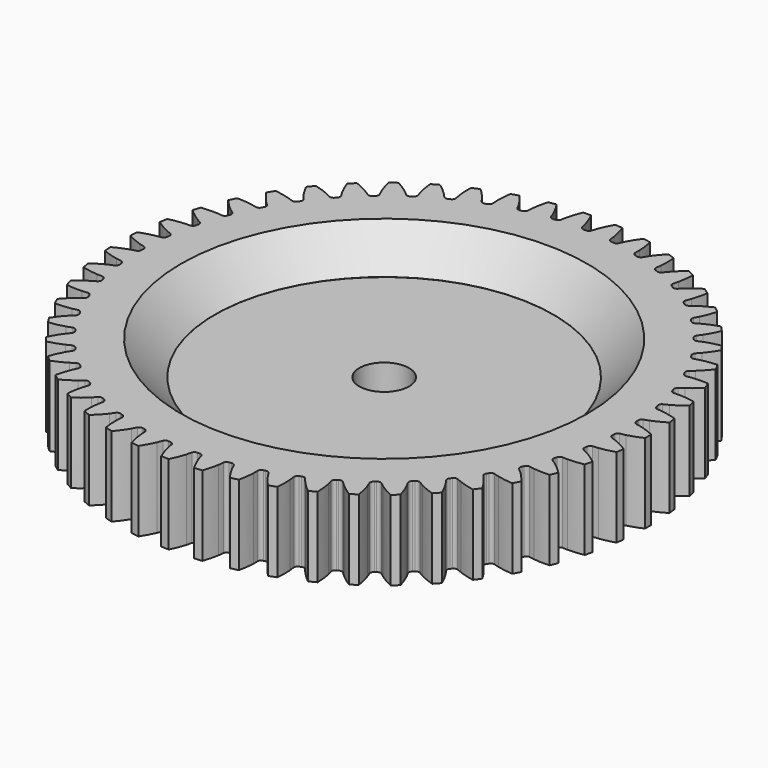
from build123d import *

# Parameters (mm, degrees)
PAD_DEPTH       = 8
SKETCH001_R     = 2.5
POCKET_DEPTH    = 8.001
SKETCH_R        = 17
POCKET001_DEPTH = 3.401
CHAMFER_SIZE    = 3.39


with BuildPart() as part:
    # InvoluteGear → Pad (new body)
    with BuildSketch(Plane.XY):
        with BuildLine():
            add(Edge.make_bspline(
                [(24.477809, -1.042539), (24.623171, -1.01798), (24.796938, -0.982154), (24.997721, -0.930036)],
                knots=[0, 0, 0, 0, 1, 1, 1, 1], degree=3))
            add(Edge.make_bspline(
                [(24.997721, -0.930036), (25.39788, -0.826117), (25.903105, -0.658218), (26.497465, -0.388172)],
                knots=[0, 0, 0, 0, 1, 1, 1, 1], degree=3))
            ThreePointArc((26.497465, -0.388172), (26.500308, 0), (26.497465, 0.388172))
            add(Edge.make_bspline(
                [(26.497465, 0.388172), (25.903105, 0.658218), (25.39788, 0.826117), (24.997721, 0.930036)],
                knots=[0, 0, 0, 0, 1, 1, 1, 1], degree=3))
            add(Edge.make_bspline(
                [(24.997721, 0.930036), (24.796938, 0.982154), (24.623171, 1.01798), (24.477829, 1.042534)],
                knots=[0, 0, 0, 0, 1, 1, 1, 1], degree=3))
            ThreePointArc((24.477829, 1.042534), (24.284389, 1.177202), (24.209514, 1.400693))
            ThreePointArc((24.209514, 1.400693), (24.204006, 1.492852), (24.198147, 1.584989))
            ThreePointArc((24.198147, 1.584989), (24.244984, 1.815979), (24.420395, 1.973399))
            add(Edge.make_bspline(
                [(24.420395, 1.973399), (24.561638, 2.015635), (24.729685, 2.072543), (24.922541, 2.148941)],
                knots=[0, 0, 0, 0, 1, 1, 1, 1], degree=3))
            add(Edge.make_bspline(
                [(24.922541, 2.148941), (25.306897, 2.301247), (25.78766, 2.529959), (26.344329, 2.870998)],
                knots=[0, 0, 0, 0, 1, 1, 1, 1], degree=3))
            ThreePointArc((26.344329, 2.870998), (26.299449, 3.256578), (26.248926, 3.641458))
            add(Edge.make_bspline(
                [(26.248926, 3.641458), (25.625886, 3.836417), (25.103857, 3.940957), (24.69396, 3.994914)],
                knots=[0, 0, 0, 0, 1, 1, 1, 1], degree=3))
            add(Edge.make_bspline(
                [(24.69396, 3.994914), (24.488294, 4.021963), (24.311442, 4.036164), (24.164184, 4.042671)],
                knots=[0, 0, 0, 0, 1, 1, 1, 1], degree=3))
            ThreePointArc((24.164184, 4.042671), (23.955661, 4.152547), (23.853889, 4.365143))
            ThreePointArc((23.853889, 4.365143), (23.837098, 4.455926), (23.819961, 4.546645))
            ThreePointArc((23.819961, 4.546645), (23.838057, 4.781639), (23.992793, 4.959422))
            add(Edge.make_bspline(
                [(23.992793, 4.959422), (24.127775, 5.018695), (24.287555, 5.095823), (24.469562, 5.195341)],
                knots=[0, 0, 0, 0, 1, 1, 1, 1], degree=3))
            add(Edge.make_bspline(
                [(24.469562, 5.195341), (24.832287, 5.393726), (25.2813, 5.679785), (25.791841, 6.086647)],
                knots=[0, 0, 0, 0, 1, 1, 1, 1], degree=3))
            ThreePointArc((25.791841, 6.086647), (25.699918, 6.463789), (25.60248, 6.839543))
            add(Edge.make_bspline(
                [(25.60248, 6.839543), (24.960204, 6.95646), (24.429285, 6.996057), (24.015865, 6.999233)],
                knots=[0, 0, 0, 0, 1, 1, 1, 1], degree=3))
            add(Edge.make_bspline(
                [(24.015865, 6.999233), (23.808433, 7.000804), (23.631176, 6.993163), (23.484235, 6.981525)],
                knots=[0, 0, 0, 0, 1, 1, 1, 1], degree=3))
            ThreePointArc((23.484235, 6.981525), (23.26379, 7.064943), (23.136664, 7.263421))
            ThreePointArc((23.136664, 7.263421), (23.108844, 7.351452), (23.080688, 7.439378))
            ThreePointArc((23.080688, 7.439378), (23.069769, 7.674815), (23.201485, 7.870266))
            add(Edge.make_bspline(
                [(23.201485, 7.870266), (23.32816, 7.945677), (23.477251, 8.041855), (23.645648, 8.162986)],
                knots=[0, 0, 0, 0, 1, 1, 1, 1], degree=3))
            add(Edge.make_bspline(
                [(23.645648, 8.162986), (23.981245, 8.404442), (24.391702, 8.743511), (24.848374, 9.210029)],
                knots=[0, 0, 0, 0, 1, 1, 1, 1], degree=3))
            ThreePointArc((24.848374, 9.210029), (24.710801, 9.573015), (24.567926, 9.933948))
            add(Edge.make_bspline(
                [(24.567926, 9.933948), (23.91615, 9.971051), (23.38439, 9.945103), (22.973713, 9.897451)],
                knots=[0, 0, 0, 0, 1, 1, 1, 1], degree=3))
            add(Edge.make_bspline(
                [(22.973713, 9.897451), (22.767661, 9.873519), (22.592686, 9.844154), (22.448289, 9.814546)],
                knots=[0, 0, 0, 0, 1, 1, 1, 1], degree=3))
            ThreePointArc((22.448289, 9.814546), (22.219264, 9.870242), (22.068711, 10.051593))
            ThreePointArc((22.068711, 10.051593), (22.030283, 10.135538), (21.991536, 10.219337))
            ThreePointArc((21.991536, 10.219337), (21.951767, 10.451648), (22.058466, 10.661804))
            add(Edge.make_bspline(
                [(22.058466, 10.661804), (22.174914, 10.752211), (22.311055, 10.865981), (22.463291, 11.006888)],
                knots=[0, 0, 0, 0, 1, 1, 1, 1], degree=3))
            add(Edge.make_bspline(
                [(22.463291, 11.006888), (22.766672, 11.287755), (23.13235, 11.674694), (23.528231, 12.193796)],
                knots=[0, 0, 0, 0, 1, 1, 1, 1], degree=3))
            ThreePointArc((23.528231, 12.193796), (23.347095, 12.537125), (23.160948, 12.877764))
            add(Edge.make_bspline(
                [(23.160948, 12.877764), (22.509553, 12.83449), (21.985011, 12.743392), (21.583303, 12.645633)],
                knots=[0, 0, 0, 0, 1, 1, 1, 1], degree=3))
            add(Edge.make_bspline(
                [(21.583303, 12.645633), (21.381754, 12.596561), (21.211714, 12.545916), (21.07205, 12.498788)],
                knots=[0, 0, 0, 0, 1, 1, 1, 1], degree=3))
            ThreePointArc((21.07205, 12.498788), (20.837916, 12.525918), (20.666218, 12.687393))
            ThreePointArc((20.666218, 12.687393), (20.617766, 12.76598), (20.569014, 12.844382))
            ThreePointArc((20.569014, 12.844382), (20.500999, 13.070045), (20.581064, 13.29172))
            add(Edge.make_bspline(
                [(20.581064, 13.29172), (20.685518, 13.395752), (20.806647, 13.52539), (20.940413, 13.683937)],
                knots=[0, 0, 0, 0, 1, 1, 1, 1], degree=3))
            add(Edge.make_bspline(
                [(20.940413, 13.683937), (21.20698, 13.999957), (21.522335, 14.428901), (21.851425, 14.992717)],
                knots=[0, 0, 0, 0, 1, 1, 1, 1], degree=3))
            ThreePointArc((21.851425, 14.992717), (21.62947, 15.311185), (21.402873, 15.626367))
            add(Edge.make_bspline(
                [(21.402873, 15.626367), (20.761733, 15.503372), (20.252363, 15.348504), (19.865712, 15.202121)],
                knots=[0, 0, 0, 0, 1, 1, 1, 1], degree=3))
            add(Edge.make_bspline(
                [(19.865712, 15.202121), (19.671721, 15.128653), (19.509194, 15.057496), (19.37638, 14.993562)],
                knots=[0, 0, 0, 0, 1, 1, 1, 1], degree=3))
            ThreePointArc((19.37638, 14.993562), (19.140687, 14.991713), (18.950446, 15.130865))
            ThreePointArc((18.950446, 15.130865), (18.892704, 15.202902), (18.834688, 15.274719))
            ThreePointArc((18.834688, 15.274719), (18.739456, 15.490314), (18.791673, 15.720147))
            add(Edge.make_bspline(
                [(18.791673, 15.720147), (18.882552, 15.836227), (18.986831, 15.979768), (19.1001, 16.153551)],
                knots=[0, 0, 0, 0, 1, 1, 1, 1], degree=3))
            add(Edge.make_bspline(
                [(19.1001, 16.153551), (19.325811, 16.499933), (19.586064, 16.96438), (19.843373, 17.564364)],
                knots=[0, 0, 0, 0, 1, 1, 1, 1], degree=3))
            ThreePointArc((19.843373, 17.564364), (19.583964, 17.853142), (19.320353, 18.138089))
            add(Edge.make_bspline(
                [(19.320353, 18.138089), (18.699187, 17.937238), (18.212709, 17.720948), (17.846978, 17.52816)],
                knots=[0, 0, 0, 0, 1, 1, 1, 1], degree=3))
            add(Edge.make_bspline(
                [(17.846978, 17.52816), (17.663485, 17.43141), (17.510934, 17.340819), (17.386983, 17.261049)],
                knots=[0, 0, 0, 0, 1, 1, 1, 1], degree=3))
            ThreePointArc((17.386983, 17.261049), (17.153304, 17.23025), (16.947406, 17.344969))
            ThreePointArc((16.947406, 17.344969), (16.881248, 17.409364), (16.814846, 17.473507))
            ThreePointArc((16.814846, 17.473507), (16.693843, 17.675765), (16.717419, 17.910273))
            add(Edge.make_bspline(
                [(16.717419, 17.910273), (16.793345, 18.036641), (16.879194, 18.191909), (16.970248, 18.378294)],
                knots=[0, 0, 0, 0, 1, 1, 1, 1], degree=3))
            add(Edge.make_bspline(
                [(16.970248, 18.378294), (17.151682, 18.749788), (17.352888, 19.242697), (17.534515, 19.869753)],
                knots=[0, 0, 0, 0, 1, 1, 1, 1], degree=3))
            ThreePointArc((17.534515, 19.869753), (17.241585, 20.124464), (16.944956, 20.374857))
            add(Edge.make_bspline(
                [(16.944956, 20.374857), (16.35318, 20.099194), (15.896968, 19.824761), (15.557701, 19.58849)],
                knots=[0, 0, 0, 0, 1, 1, 1, 1], degree=3))
            add(Edge.make_bspline(
                [(15.557701, 19.58849), (15.387489, 19.469924), (15.247226, 19.361274), (15.134018, 19.266875)],
                knots=[0, 0, 0, 0, 1, 1, 1, 1], degree=3))
            ThreePointArc((15.134018, 19.266875), (14.905895, 19.207594), (14.687459, 19.29614))
            ThreePointArc((14.687459, 19.29614), (14.61389, 19.351918), (14.540109, 19.407415))
            ThreePointArc((14.540109, 19.407415), (14.395167, 19.593269), (14.389747, 19.828898))
            add(Edge.make_bspline(
                [(14.389747, 19.828898), (14.449568, 19.963637), (14.515686, 20.128279), (14.583145, 20.324441)],
                knots=[0, 0, 0, 0, 1, 1, 1, 1], degree=3))
            add(Edge.make_bspline(
                [(14.583145, 20.324441), (14.717552, 20.715415), (14.85666, 21.229314), (14.959853, 21.873937)],
                knots=[0, 0, 0, 0, 1, 1, 1, 1], degree=3))
            ThreePointArc((14.959853, 21.873937), (14.637842, 22.09072), (14.31269, 22.302763))
            add(Edge.make_bspline(
                [(14.31269, 22.302763), (13.759276, 21.956467), (13.340246, 21.628051), (13.032585, 21.351879)],
                knots=[0, 0, 0, 0, 1, 1, 1, 1], degree=3))
            add(Edge.make_bspline(
                [(13.032585, 21.351879), (12.878234, 21.213294), (12.752386, 21.088231), (12.651637, 20.980636)],
                knots=[0, 0, 0, 0, 1, 1, 1, 1], degree=3))
            ThreePointArc((12.651637, 20.980636), (12.432527, 20.89377), (12.204866, 20.954802))
            ThreePointArc((12.204866, 20.954802), (12.125, 21.001116), (12.044958, 21.047125))
            ThreePointArc((12.044958, 21.047125), (11.878276, 21.21376), (11.843941, 21.446936))
            add(Edge.make_bspline(
                [(11.843941, 21.446936), (11.88675, 21.588006), (11.932135, 21.759525), (11.974977, 21.962489)],
                knots=[0, 0, 0, 0, 1, 1, 1, 1], degree=3))
            add(Edge.make_bspline(
                [(11.974977, 21.962489), (12.060318, 22.367018), (12.13522, 22.894116), (12.158414, 23.546535)],
                knots=[0, 0, 0, 0, 1, 1, 1, 1], degree=3))
            ThreePointArc((12.158414, 23.546535), (11.812204, 23.722103), (11.463459, 23.892581))
            add(Edge.make_bspline(
                [(11.463459, 23.892581), (10.956795, 23.480902), (10.5813, 23.103482), (10.309909, 22.791595)],
                knots=[0, 0, 0, 0, 1, 1, 1, 1], degree=3))
            add(Edge.make_bspline(
                [(10.309909, 22.791595), (10.173758, 22.635092), (10.064233, 22.495512), (9.977469, 22.376351)],
                knots=[0, 0, 0, 0, 1, 1, 1, 1], degree=3))
            ThreePointArc((9.977469, 22.376351), (9.770695, 22.263218), (9.53726, 22.295811))
            ThreePointArc((9.53726, 22.295811), (9.452307, 22.331959), (9.367218, 22.367783))
            ThreePointArc((9.367218, 22.367783), (9.181322, 22.512671), (9.118592, 22.739861))
            add(Edge.make_bspline(
                [(9.118592, 22.739861), (9.143742, 22.885122), (9.167705, 23.060918), (9.18528, 23.267609)],
                knots=[0, 0, 0, 0, 1, 1, 1, 1], degree=3))
            add(Edge.make_bspline(
                [(9.18528, 23.267609), (9.220263, 23.679559), (9.229822, 24.211867), (9.172666, 24.862191)],
                knots=[0, 0, 0, 0, 1, 1, 1, 1], degree=3))
            ThreePointArc((9.172666, 24.862191), (8.807505, 24.993883), (8.440453, 25.120212))
            add(Edge.make_bspline(
                [(8.440453, 25.120212), (7.98822, 24.64939), (7.661952, 24.228687), (7.430945, 23.885813)],
                knots=[0, 0, 0, 0, 1, 1, 1, 1], degree=3))
            add(Edge.make_bspline(
                [(7.430945, 23.885813), (7.315058, 23.713766), (7.223516, 23.561783), (7.152053, 23.432864)],
                knots=[0, 0, 0, 0, 1, 1, 1, 1], degree=3))
            ThreePointArc((7.152053, 23.432864), (6.96075, 23.295178), (6.725078, 23.298837))
            ThreePointArc((6.725078, 23.298837), (6.636328, 23.324272), (6.547481, 23.349368))
            ThreePointArc((6.547481, 23.349368), (6.345189, 23.470314), (6.255016, 23.688073))
            add(Edge.make_bspline(
                [(6.255016, 23.688073), (6.262123, 23.835323), (6.264301, 24.012732), (6.256343, 24.220016)],
                knots=[0, 0, 0, 0, 1, 1, 1, 1], degree=3))
            add(Edge.make_bspline(
                [(6.256343, 24.220016), (6.240437, 24.633142), (6.18451, 25.16259), (6.04787, 25.800961)],
                knots=[0, 0, 0, 0, 1, 1, 1, 1], degree=3))
            ThreePointArc((6.04787, 25.800961), (5.669293, 25.886781), (5.289499, 25.967047))
            add(Edge.make_bspline(
                [(5.289499, 25.967047), (4.898552, 25.444219), (4.626456, 24.98661), (4.439336, 24.617947)],
                knots=[0, 0, 0, 0, 1, 1, 1, 1], degree=3))
            add(Edge.make_bspline(
                [(4.439336, 24.617947), (4.345469, 24.432962), (4.273299, 24.270883), (4.21822, 24.134159)],
                knots=[0, 0, 0, 0, 1, 1, 1, 1], degree=3))
            ThreePointArc((4.21822, 24.134159), (4.045286, 23.974007), (3.810951, 23.948677))
            ThreePointArc((3.810951, 23.948677), (3.719748, 23.963013), (3.62849, 23.977001))
            ThreePointArc((3.62849, 23.977001), (3.412868, 24.07217), (3.296619, 24.277197))
            add(Edge.make_bspline(
                [(3.296619, 24.277197), (3.285577, 24.424205), (3.265937, 24.600537), (3.232567, 24.805272)],
                knots=[0, 0, 0, 0, 1, 1, 1, 1], degree=3))
            add(Edge.make_bspline(
                [(3.232567, 24.805272), (3.166013, 25.213313), (3.045447, 25.731874), (2.831394, 26.348615)],
                knots=[0, 0, 0, 0, 1, 1, 1, 1], degree=3))
            ThreePointArc((2.831394, 26.348615), (2.44514, 26.387262), (2.058361, 26.420247))
            add(Edge.make_bspline(
                [(2.058361, 26.420247), (1.734627, 25.85334), (1.520828, 25.365761), (1.38043, 24.976898)],
                knots=[0, 0, 0, 0, 1, 1, 1, 1], degree=3))
            add(Edge.make_bspline(
                [(1.38043, 24.976898), (1.310008, 24.78178), (1.258302, 24.61206), (1.220442, 24.469604)],
                knots=[0, 0, 0, 0, 1, 1, 1, 1], degree=3))
            ThreePointArc((1.220442, 24.469604), (1.0685, 24.289415), (0.839054, 24.23548))
            ThreePointArc((0.839054, 24.23548), (0.74678, 24.238499), (0.654496, 24.241166))
            ThreePointArc((0.654496, 24.241166), (0.428813, 24.309117), (0.288249, 24.498304))
            add(Edge.make_bspline(
                [(0.288249, 24.498304), (0.259225, 24.642841), (0.218065, 24.815423), (0.159788, 25.014505)],
                knots=[0, 0, 0, 0, 1, 1, 1, 1], degree=3))
            add(Edge.make_bspline(
                [(0.159788, 25.014505), (0.043596, 25.411274), (-0.139782, 25.91109), (-0.428003, 26.496851)],
                knots=[0, 0, 0, 0, 1, 1, 1, 1], degree=3))
            ThreePointArc((-0.428003, 26.496851), (-0.816079, 26.487739), (-1.203979, 26.472944))
            add(Edge.make_bspline(
                [(-1.203979, 26.472944), (-1.455593, 25.87055), (-1.607854, 25.360394), (-1.699401, 24.957224)],
                knots=[0, 0, 0, 0, 1, 1, 1, 1], degree=3))
            add(Edge.make_bspline(
                [(-1.699401, 24.957224), (-1.745312, 24.754932), (-1.775769, 24.580144), (-1.795836, 24.434115)],
                knots=[0, 0, 0, 0, 1, 1, 1, 1], degree=3))
            ThreePointArc((-1.795836, 24.434115), (-1.924483, 24.236619), (-2.145562, 24.154897))
            ThreePointArc((-2.145562, 24.154897), (-2.237508, 24.146554), (-2.329421, 24.13786))
            ThreePointArc((-2.329421, 24.13786), (-2.561743, 24.177562), (-2.724491, 24.348042))
            add(Edge.make_bspline(
                [(-2.724491, 24.348042), (-2.771056, 24.487917), (-2.833112, 24.654132), (-2.915413, 24.844544)],
                knots=[0, 0, 0, 0, 1, 1, 1, 1], degree=3))
            add(Edge.make_bspline(
                [(-2.915413, 24.844544), (-3.079483, 25.224027), (-3.322892, 25.697519), (-3.680912, 26.243422)],
                knots=[0, 0, 0, 0, 1, 1, 1, 1], degree=3))
            ThreePointArc((-3.680912, 26.243422), (-4.064926, 26.186689), (-4.448068, 26.124338))
            add(Edge.make_bspline(
                [(-4.448068, 26.124338), (-4.623748, 25.495589), (-4.712163, 24.970588), (-4.753471, 24.559225)],
                knots=[0, 0, 0, 0, 1, 1, 1, 1], degree=3))
            add(Edge.make_bspline(
                [(-4.753471, 24.559225), (-4.774174, 24.352823), (-4.782922, 24.175618), (-4.784891, 24.02823)],
                knots=[0, 0, 0, 0, 1, 1, 1, 1], degree=3))
            ThreePointArc((-4.784891, 24.02823), (-4.888293, 23.816422), (-5.097654, 23.708151))
            ThreePointArc((-5.097654, 23.708151), (-5.187877, 23.688572), (-5.278025, 23.668649))
            ThreePointArc((-5.278025, 23.668649), (-5.513466, 23.679501), (-5.69593, 23.828688))
            add(Edge.make_bspline(
                [(-5.69593, 23.828688), (-5.759331, 23.961781), (-5.841343, 24.11911), (-5.946419, 24.297965)],
                knots=[0, 0, 0, 0, 1, 1, 1, 1], degree=3))
            add(Edge.make_bspline(
                [(-5.946419, 24.297965), (-6.15588, 24.65441), (-6.45563, 25.094401), (-6.878022, 25.59217)],
                knots=[0, 0, 0, 0, 1, 1, 1, 1], degree=3))
            ThreePointArc((-6.878022, 25.59217), (-7.252154, 25.488676), (-7.624729, 25.379713))
            add(Edge.make_bspline(
                [(-7.624729, 25.379713), (-7.721812, 24.734141), (-7.74504, 24.202255), (-7.735483, 23.788933)],
                knots=[0, 0, 0, 0, 1, 1, 1, 1], degree=3))
            add(Edge.make_bspline(
                [(-7.735483, 23.788933), (-7.730665, 23.581551), (-7.71757, 23.404614), (-7.701412, 23.258101)],
                knots=[0, 0, 0, 0, 1, 1, 1, 1], degree=3))
            ThreePointArc((-7.701412, 23.258101), (-7.778002, 23.035191), (-7.972471, 22.902013))
            ThreePointArc((-7.972471, 22.902013), (-8.059604, 22.871495), (-8.14662, 22.840645))
            ThreePointArc((-8.14662, 22.840645), (-8.38161, 22.822482), (-8.581024, 22.948116))
            add(Edge.make_bspline(
                [(-8.581024, 22.948116), (-8.660301, 23.072408), (-8.761025, 23.218467), (-8.887283, 23.383054)],
                knots=[0, 0, 0, 0, 1, 1, 1, 1], degree=3))
            add(Edge.make_bspline(
                [(-8.887283, 23.383054), (-9.138959, 23.711056), (-9.490508, 24.110876), (-9.970868, 24.552966)],
                knots=[0, 0, 0, 0, 1, 1, 1, 1], degree=3))
            ThreePointArc((-9.970868, 24.552966), (-10.329446, 24.40428), (-10.685807, 24.250358))
            add(Edge.make_bspline(
                [(-10.685807, 24.250358), (-10.702821, 23.597748), (-10.66051, 23.067039), (-10.600233, 22.658024)],
                knots=[0, 0, 0, 0, 1, 1, 1, 1], degree=3))
            add(Edge.make_bspline(
                [(-10.600233, 22.658024), (-10.569967, 22.452807), (-10.535228, 22.27882), (-10.501187, 22.135403)],
                knots=[0, 0, 0, 0, 1, 1, 1, 1], degree=3))
            ThreePointArc((-10.501187, 22.135403), (-10.549804, 21.904771), (-10.726433, 21.748704))
            ThreePointArc((-10.726433, 21.748704), (-10.809155, 21.70771), (-10.891721, 21.666401))
            ThreePointArc((-10.891721, 21.666401), (-11.122697, 21.619497), (-11.336039, 21.719674))
            add(Edge.make_bspline(
                [(-11.336039, 21.719674), (-11.429989, 21.833282), (-11.547898, 21.965855), (-11.693426, 22.113679)],
                knots=[0, 0, 0, 0, 1, 1, 1, 1], degree=3))
            add(Edge.make_bspline(
                [(-11.693426, 22.113679), (-11.983502, 22.408267), (-12.381519, 22.761856), (-12.912566, 23.141564)],
                knots=[0, 0, 0, 0, 1, 1, 1, 1], degree=3))
            ThreePointArc((-12.912566, 23.141564), (-13.250154, 22.94994), (-13.584899, 22.753392))
            add(Edge.make_bspline(
                [(-13.584899, 22.753392), (-13.521586, 22.103638), (-13.414378, 21.582151), (-13.304295, 21.183643)],
                knots=[0, 0, 0, 0, 1, 1, 1, 1], degree=3))
            add(Edge.make_bspline(
                [(-13.304295, 21.183643), (-13.24904, 20.983701), (-13.193182, 20.815301), (-13.141775, 20.677155)],
                knots=[0, 0, 0, 0, 1, 1, 1, 1], degree=3))
            ThreePointArc((-13.141775, 20.677155), (-13.161682, 20.442297), (-13.317793, 20.265707))
            ThreePointArc((-13.317793, 20.265707), (-13.394851, 20.214858), (-13.471714, 20.163715))
            ThreePointArc((-13.471714, 20.163715), (-13.695176, 20.088783), (-13.919211, 20.161983))
            add(Edge.make_bspline(
                [(-13.919211, 20.161983), (-14.02641, 20.263185), (-14.159717, 20.380264), (-14.322308, 20.509084)],
                knots=[0, 0, 0, 0, 1, 1, 1, 1], degree=3))
            add(Edge.make_bspline(
                [(-14.322308, 20.509084), (-14.646387, 20.765792), (-15.084839, 21.067789), (-15.658522, 21.379359)],
                knots=[0, 0, 0, 0, 1, 1, 1, 1], degree=3))
            ThreePointArc((-15.658522, 21.379359), (-15.970004, 21.147702), (-16.278058, 20.911508))
            add(Edge.make_bspline(
                [(-16.278058, 20.911508), (-16.135377, 20.274459), (-15.964897, 19.770099), (-15.806677, 19.38814)],
                knots=[0, 0, 0, 0, 1, 1, 1, 1], degree=3))
            add(Edge.make_bspline(
                [(-15.806677, 19.38814), (-15.72727, 19.196503), (-15.651141, 19.036244), (-15.583148, 18.905462)],
                knots=[0, 0, 0, 0, 1, 1, 1, 1], degree=3))
            ThreePointArc((-15.583148, 18.905462), (-15.574042, 18.669938), (-15.707269, 18.475503))
            ThreePointArc((-15.707269, 18.475503), (-15.777494, 18.415569), (-15.84749, 18.355369))
            ThreePointArc((-15.84749, 18.355369), (-16.06005, 18.253544), (-16.291382, 18.298657))
            add(Edge.make_bspline(
                [(-16.291382, 18.298657), (-16.410205, 18.385919), (-16.55689, 18.485728), (-16.734078, 18.593591)],
                knots=[0, 0, 0, 0, 1, 1, 1, 1], degree=3))
            add(Edge.make_bspline(
                [(-16.734078, 18.593591), (-17.087247, 18.808529), (-17.559488, 19.054356), (-18.167112, 19.293066)],
                knots=[0, 0, 0, 0, 1, 1, 1, 1], degree=3))
            ThreePointArc((-18.167112, 19.293066), (-18.447764, 19.024887), (-18.724458, 18.752626))
            add(Edge.make_bspline(
                [(-18.724458, 18.752626), (-18.504573, 18.13794), (-18.273405, 17.658353), (-18.069446, 17.298732)],
                knots=[0, 0, 0, 0, 1, 1, 1, 1], degree=3))
            add(Edge.make_bspline(
                [(-18.069446, 17.298732), (-17.96709, 17.118306), (-17.871845, 16.968617), (-17.788295, 16.847182)],
                knots=[0, 0, 0, 0, 1, 1, 1, 1], degree=3))
            ThreePointArc((-17.788295, 16.847182), (-17.750315, 16.614562), (-17.858639, 16.405228))
            ThreePointArc((-17.858639, 16.405228), (-17.920966, 16.337119), (-17.983034, 16.268773))
            ThreePointArc((-17.983034, 16.268773), (-18.181469, 16.141599), (-18.416593, 16.157943))
            add(Edge.make_bspline(
                [(-18.416593, 16.157943), (-18.545238, 16.229941), (-18.703077, 16.310968), (-18.892177, 16.396239)],
                knots=[0, 0, 0, 0, 1, 1, 1, 1], degree=3))
            add(Edge.make_bspline(
                [(-18.892177, 16.396239), (-19.269083, 16.566147), (-19.767954, 16.752078), (-20.400306, 16.914309)],
                knots=[0, 0, 0, 0, 1, 1, 1, 1], degree=3))
            ThreePointArc((-20.400306, 16.914309), (-20.645875, 16.613674), (-20.887014, 16.309474))
            add(Edge.make_bspline(
                [(-20.887014, 16.309474), (-20.593258, 15.726469), (-20.304907, 15.278924), (-20.0583, 14.947094)],
                knots=[0, 0, 0, 0, 1, 1, 1, 1], degree=3))
            add(Edge.make_bspline(
                [(-20.0583, 14.947094), (-19.934548, 14.780613), (-19.82163, 14.643763), (-19.723791, 14.533516)],
                knots=[0, 0, 0, 0, 1, 1, 1, 1], degree=3))
            ThreePointArc((-19.723791, 14.533516), (-19.657512, 14.307326), (-19.73929, 14.086268))
            ThreePointArc((-19.73929, 14.086268), (-19.792775, 14.011015), (-19.845973, 13.93556))
            ThreePointArc((-19.845973, 13.93556), (-20.027277, 13.784964), (-20.262626, 13.77229))
            add(Edge.make_bspline(
                [(-20.262626, 13.77229), (-20.399144, 13.827933), (-20.565744, 13.88895), (-20.76389, 13.950337)],
                knots=[0, 0, 0, 0, 1, 1, 1, 1], degree=3))
            add(Edge.make_bspline(
                [(-20.76389, 13.950337), (-21.158818, 14.072639), (-21.676757, 14.195856), (-22.324253, 14.279148)],
                knots=[0, 0, 0, 0, 1, 1, 1, 1], degree=3))
            ThreePointArc((-22.324253, 14.279148), (-22.531016, 13.950614), (-22.732945, 13.619087))
            add(Edge.make_bspline(
                [(-22.732945, 13.619087), (-22.369771, 13.0766), (-22.028607, 12.667882), (-21.743091, 12.368872)],
                knots=[0, 0, 0, 0, 1, 1, 1, 1], degree=3))
            add(Edge.make_bspline(
                [(-21.743091, 12.368872), (-21.599819, 12.218861), (-21.470939, 12.096925), (-21.360293, 11.999536)],
                knots=[0, 0, 0, 0, 1, 1, 1, 1], degree=3))
            ThreePointArc((-21.360293, 11.999536), (-21.266721, 11.783206), (-21.320713, 11.553773))
            ThreePointArc((-21.320713, 11.553773), (-21.364546, 11.472519), (-21.408068, 11.391098))
            ThreePointArc((-21.408068, 11.391098), (-21.569491, 11.219363), (-21.801499, 11.177864))
            add(Edge.make_bspline(
                [(-21.801499, 11.177864), (-21.94382, 11.216309), (-22.116655, 11.25639), (-22.320843, 11.292961)],
                knots=[0, 0, 0, 0, 1, 1, 1, 1], degree=3))
            add(Edge.make_bspline(
                [(-22.320843, 11.292961), (-22.727808, 11.365805), (-23.256962, 11.424439), (-23.909786, 11.42753)],
                knots=[0, 0, 0, 0, 1, 1, 1, 1], degree=3))
            ThreePointArc((-23.909786, 11.42753), (-24.07461, 11.076078), (-24.234267, 10.722249))
            add(Edge.make_bspline(
                [(-24.234267, 10.722249), (-23.80718, 10.228503), (-23.418376, 9.864808), (-23.098279, 9.603151)],
                knots=[0, 0, 0, 0, 1, 1, 1, 1], degree=3))
            add(Edge.make_bspline(
                [(-23.098279, 9.603151), (-22.937658, 9.471884), (-22.794771, 9.366709), (-22.672996, 9.283656)],
                knots=[0, 0, 0, 0, 1, 1, 1, 1], degree=3))
            ThreePointArc((-22.672996, 9.283656), (-22.553548, 9.080464), (-22.578937, 8.846136))
            ThreePointArc((-22.578937, 8.846136), (-22.612452, 8.76011), (-22.645639, 8.673958))
            ThreePointArc((-22.645639, 8.673958), (-22.784733, 8.483688), (-23.009883, 8.413992))
            add(Edge.make_bspline(
                [(-23.009883, 8.413992), (-23.15585, 8.434656), (-23.332301, 8.453194), (-23.539435, 8.464396)],
                knots=[0, 0, 0, 0, 1, 1, 1, 1], degree=3))
            add(Edge.make_bspline(
                [(-23.539435, 8.464396), (-23.952267, 8.486676), (-24.484616, 8.479839), (-25.132872, 8.402683)],
                knots=[0, 0, 0, 0, 1, 1, 1, 1], degree=3))
            ThreePointArc((-25.132872, 8.402683), (-25.253257, 8.033639), (-25.368223, 7.662872))
            add(Edge.make_bspline(
                [(-25.368223, 7.662872), (-24.883697, 7.225352), (-24.453146, 6.912194), (-24.103321, 6.691856)],
                knots=[0, 0, 0, 0, 1, 1, 1, 1], degree=3))
            add(Edge.make_bspline(
                [(-24.103321, 6.691856), (-23.927786, 6.581322), (-23.773057, 6.494504), (-23.641998, 6.427045)],
                knots=[0, 0, 0, 0, 1, 1, 1, 1], degree=3))
            ThreePointArc((-23.641998, 6.427045), (-23.498486, 6.240072), (-23.494886, 6.004399))
            ThreePointArc((-23.494886, 6.004399), (-23.517576, 5.914908), (-23.539924, 5.82533))
            ThreePointArc((-23.539924, 5.82533), (-23.654583, 5.619409), (-23.869461, 5.522573))
            add(Edge.make_bspline(
                [(-23.869461, 5.522573), (-24.016861, 5.525143), (-24.194252, 5.521857), (-24.401194, 5.507519)],
                knots=[0, 0, 0, 0, 1, 1, 1, 1], degree=3))
            add(Edge.make_bspline(
                [(-24.401194, 5.507519), (-24.813634, 5.478899), (-25.341108, 5.406693), (-25.974969, 5.250459)],
                knots=[0, 0, 0, 0, 1, 1, 1, 1], degree=3))
            ThreePointArc((-25.974969, 5.250459), (-26.04909, 4.869419), (-26.117622, 4.487334))
            add(Edge.make_bspline(
                [(-26.117622, 4.487334), (-25.583003, 4.112673), (-25.117231, 3.854798), (-24.742981, 3.679119)],
                knots=[0, 0, 0, 0, 1, 1, 1, 1], degree=3))
            add(Edge.make_bspline(
                [(-24.742981, 3.679119), (-24.555193, 3.590994), (-24.390968, 3.523849), (-24.252613, 3.473006)],
                knots=[0, 0, 0, 0, 1, 1, 1, 1], degree=3))
            ThreePointArc((-24.252613, 3.473006), (-24.087212, 3.305087), (-24.054678, 3.071643))
            ThreePointArc((-24.054678, 3.071643), (-24.066197, 2.980041), (-24.077368, 2.888396))
            ThreePointArc((-24.077368, 2.888396), (-24.165853, 2.669946), (-24.367203, 2.547438))
            add(Edge.make_bspline(
                [(-24.367203, 2.547438), (-24.513801, 2.531874), (-24.689444, 2.506814), (-24.893055, 2.467154)],
                knots=[0, 0, 0, 0, 1, 1, 1, 1], degree=3))
            add(Edge.make_bspline(
                [(-24.893055, 2.467154), (-25.298852, 2.388066), (-25.813455, 2.251588), (-26.423312, 2.018644)],
                knots=[0, 0, 0, 0, 1, 1, 1, 1], degree=3))
            ThreePointArc((-26.423312, 2.018644), (-26.450046, 1.631383), (-26.471104, 1.243772))
            add(Edge.make_bspline(
                [(-26.471104, 1.243772), (-25.894496, 0.937649), (-25.400565, 0.738967), (-25.007562, 0.610611)],
                knots=[0, 0, 0, 0, 1, 1, 1, 1], degree=3))
            add(Edge.make_bspline(
                [(-25.007562, 0.610611), (-24.810368, 0.54623), (-24.639137, 0.499775), (-24.495582, 0.466321)],
                knots=[0, 0, 0, 0, 1, 1, 1, 1], degree=3))
            ThreePointArc((-24.495582, 0.466321), (-24.310799, 0.32), (-24.249824, 0.092323))
            ThreePointArc((-24.249824, 0.092323), (-24.25, 0), (-24.249824, -0.092323))
            ThreePointArc((-24.249824, -0.092323), (-24.310793, -0.319991), (-24.495562, -0.466314))
            add(Edge.make_bspline(
                [(-24.495562, -0.466314), (-24.639137, -0.499775), (-24.810368, -0.54623), (-25.007562, -0.610611)],
                knots=[0, 0, 0, 0, 1, 1, 1, 1], degree=3))
            add(Edge.make_bspline(
                [(-25.007562, -0.610611), (-25.400565, -0.738967), (-25.894496, -0.937649), (-26.471104, -1.243772)],
                knots=[0, 0, 0, 0, 1, 1, 1, 1], degree=3))
            ThreePointArc((-26.471104, -1.243772), (-26.450046, -1.631383), (-26.423312, -2.018644))
            add(Edge.make_bspline(
                [(-26.423312, -2.018644), (-25.813455, -2.251588), (-25.298852, -2.388066), (-24.893055, -2.467154)],
                knots=[0, 0, 0, 0, 1, 1, 1, 1], degree=3))
            add(Edge.make_bspline(
                [(-24.893055, -2.467154), (-24.689444, -2.506814), (-24.513801, -2.531874), (-24.367223, -2.547434)],
                knots=[0, 0, 0, 0, 1, 1, 1, 1], degree=3))
            ThreePointArc((-24.367223, -2.547434), (-24.16586, -2.669938), (-24.077368, -2.888396))
            ThreePointArc((-24.077368, -2.888396), (-24.066197, -2.980041), (-24.054678, -3.071643))
            ThreePointArc((-24.054678, -3.071643), (-24.087206, -3.305078), (-24.252593, -3.472998))
            add(Edge.make_bspline(
                [(-24.252593, -3.472998), (-24.390968, -3.523849), (-24.555193, -3.590994), (-24.742981, -3.679119)],
                knots=[0, 0, 0, 0, 1, 1, 1, 1], degree=3))
            add(Edge.make_bspline(
                [(-24.742981, -3.679119), (-25.117231, -3.854798), (-25.583003, -4.112673), (-26.117622, -4.487334)],
                knots=[0, 0, 0, 0, 1, 1, 1, 1], degree=3))
            ThreePointArc((-26.117622, -4.487334), (-26.04909, -4.869419), (-25.974969, -5.250459))
            add(Edge.make_bspline(
                [(-25.974969, -5.250459), (-25.341108, -5.406693), (-24.813634, -5.478899), (-24.401194, -5.507519)],
                knots=[0, 0, 0, 0, 1, 1, 1, 1], degree=3))
            add(Edge.make_bspline(
                [(-24.401194, -5.507519), (-24.194252, -5.521857), (-24.016861, -5.525143), (-23.869482, -5.522572)],
                knots=[0, 0, 0, 0, 1, 1, 1, 1], degree=3))
            ThreePointArc((-23.869482, -5.522572), (-23.654591, -5.619403), (-23.539924, -5.82533))
            ThreePointArc((-23.539924, -5.82533), (-23.517576, -5.914908), (-23.494886, -6.004399))
            ThreePointArc((-23.494886, -6.004399), (-23.498482, -6.240062), (-23.64198, -6.427034))
            add(Edge.make_bspline(
                [(-23.64198, -6.427034), (-23.773057, -6.494504), (-23.927786, -6.581322), (-24.103321, -6.691856)],
                knots=[0, 0, 0, 0, 1, 1, 1, 1], degree=3))
            add(Edge.make_bspline(
                [(-24.103321, -6.691856), (-24.453146, -6.912194), (-24.883697, -7.225352), (-25.368223, -7.662872)],
                knots=[0, 0, 0, 0, 1, 1, 1, 1], degree=3))
            ThreePointArc((-25.368223, -7.662872), (-25.253257, -8.033639), (-25.132872, -8.402683))
            add(Edge.make_bspline(
                [(-25.132872, -8.402683), (-24.484616, -8.479839), (-23.952267, -8.486676), (-23.539435, -8.464396)],
                knots=[0, 0, 0, 0, 1, 1, 1, 1], degree=3))
            add(Edge.make_bspline(
                [(-23.539435, -8.464396), (-23.332301, -8.453194), (-23.15585, -8.434656), (-23.009904, -8.413994)],
                knots=[0, 0, 0, 0, 1, 1, 1, 1], degree=3))
            ThreePointArc((-23.009904, -8.413994), (-22.784742, -8.483683), (-22.645639, -8.673958))
            ThreePointArc((-22.645639, -8.673958), (-22.612452, -8.76011), (-22.578937, -8.846136))
            ThreePointArc((-22.578937, -8.846136), (-22.553545, -9.080454), (-22.672979, -9.283643))
            add(Edge.make_bspline(
                [(-22.672979, -9.283643), (-22.794771, -9.366709), (-22.937658, -9.471884), (-23.098279, -9.603151)],
                knots=[0, 0, 0, 0, 1, 1, 1, 1], degree=3))
            add(Edge.make_bspline(
                [(-23.098279, -9.603151), (-23.418376, -9.864808), (-23.80718, -10.228503), (-24.234267, -10.722249)],
                knots=[0, 0, 0, 0, 1, 1, 1, 1], degree=3))
            ThreePointArc((-24.234267, -10.722249), (-24.07461, -11.076078), (-23.909786, -11.42753))
            add(Edge.make_bspline(
                [(-23.909786, -11.42753), (-23.256962, -11.424439), (-22.727808, -11.365805), (-22.320843, -11.292961)],
                knots=[0, 0, 0, 0, 1, 1, 1, 1], degree=3))
            add(Edge.make_bspline(
                [(-22.320843, -11.292961), (-22.116655, -11.25639), (-21.94382, -11.216309), (-21.80152, -11.177868)],
                knots=[0, 0, 0, 0, 1, 1, 1, 1], degree=3))
            ThreePointArc((-21.80152, -11.177868), (-21.5695, -11.219359), (-21.408068, -11.391098))
            ThreePointArc((-21.408068, -11.391098), (-21.364546, -11.472519), (-21.320713, -11.553773))
            ThreePointArc((-21.320713, -11.553773), (-21.266719, -11.783196), (-21.360278, -11.999521))
            add(Edge.make_bspline(
                [(-21.360278, -11.999521), (-21.470939, -12.096925), (-21.599819, -12.218861), (-21.743091, -12.368872)],
                knots=[0, 0, 0, 0, 1, 1, 1, 1], degree=3))
            add(Edge.make_bspline(
                [(-21.743091, -12.368872), (-22.028607, -12.667882), (-22.369771, -13.0766), (-22.732945, -13.619087)],
                knots=[0, 0, 0, 0, 1, 1, 1, 1], degree=3))
            ThreePointArc((-22.732945, -13.619087), (-22.531016, -13.950614), (-22.324253, -14.279148))
            add(Edge.make_bspline(
                [(-22.324253, -14.279148), (-21.676757, -14.195856), (-21.158818, -14.072639), (-20.76389, -13.950337)],
                knots=[0, 0, 0, 0, 1, 1, 1, 1], degree=3))
            add(Edge.make_bspline(
                [(-20.76389, -13.950337), (-20.565744, -13.88895), (-20.399144, -13.827933), (-20.262646, -13.772297)],
                knots=[0, 0, 0, 0, 1, 1, 1, 1], degree=3))
            ThreePointArc((-20.262646, -13.772297), (-20.027287, -13.784961), (-19.845973, -13.93556))
            ThreePointArc((-19.845973, -13.93556), (-19.792775, -14.011015), (-19.73929, -14.086268))
            ThreePointArc((-19.73929, -14.086268), (-19.657512, -14.307316), (-19.723778, -14.533499))
            add(Edge.make_bspline(
                [(-19.723778, -14.533499), (-19.82163, -14.643763), (-19.934548, -14.780613), (-20.0583, -14.947094)],
                knots=[0, 0, 0, 0, 1, 1, 1, 1], degree=3))
            add(Edge.make_bspline(
                [(-20.0583, -14.947094), (-20.304907, -15.278924), (-20.593258, -15.726469), (-20.887014, -16.309474)],
                knots=[0, 0, 0, 0, 1, 1, 1, 1], degree=3))
            ThreePointArc((-20.887014, -16.309474), (-20.645875, -16.613674), (-20.400306, -16.914309))
            add(Edge.make_bspline(
                [(-20.400306, -16.914309), (-19.767954, -16.752078), (-19.269083, -16.566147), (-18.892177, -16.396239)],
                knots=[0, 0, 0, 0, 1, 1, 1, 1], degree=3))
            add(Edge.make_bspline(
                [(-18.892177, -16.396239), (-18.703077, -16.310968), (-18.545238, -16.229941), (-18.416612, -16.157952)],
                knots=[0, 0, 0, 0, 1, 1, 1, 1], degree=3))
            ThreePointArc((-18.416612, -16.157952), (-18.18148, -16.141597), (-17.983034, -16.268773))
            ThreePointArc((-17.983034, -16.268773), (-17.920966, -16.337119), (-17.858639, -16.405228))
            ThreePointArc((-17.858639, -16.405228), (-17.750316, -16.614552), (-17.788285, -16.847164))
            add(Edge.make_bspline(
                [(-17.788285, -16.847164), (-17.871845, -16.968617), (-17.96709, -17.118306), (-18.069446, -17.298732)],
                knots=[0, 0, 0, 0, 1, 1, 1, 1], degree=3))
            add(Edge.make_bspline(
                [(-18.069446, -17.298732), (-18.273405, -17.658353), (-18.504573, -18.13794), (-18.724458, -18.752626)],
                knots=[0, 0, 0, 0, 1, 1, 1, 1], degree=3))
            ThreePointArc((-18.724458, -18.752626), (-18.447764, -19.024887), (-18.167112, -19.293066))
            add(Edge.make_bspline(
                [(-18.167112, -19.293066), (-17.559488, -19.054356), (-17.087247, -18.808529), (-16.734078, -18.593591)],
                knots=[0, 0, 0, 0, 1, 1, 1, 1], degree=3))
            add(Edge.make_bspline(
                [(-16.734078, -18.593591), (-16.55689, -18.485728), (-16.410205, -18.385919), (-16.2914, -18.298669)],
                knots=[0, 0, 0, 0, 1, 1, 1, 1], degree=3))
            ThreePointArc((-16.2914, -18.298669), (-16.06006, -18.253543), (-15.84749, -18.355369))
            ThreePointArc((-15.84749, -18.355369), (-15.777494, -18.415569), (-15.707269, -18.475503))
            ThreePointArc((-15.707269, -18.475503), (-15.574044, -18.669928), (-15.583139, -18.905443))
            add(Edge.make_bspline(
                [(-15.583139, -18.905443), (-15.651141, -19.036244), (-15.72727, -19.196503), (-15.806677, -19.38814)],
                knots=[0, 0, 0, 0, 1, 1, 1, 1], degree=3))
            add(Edge.make_bspline(
                [(-15.806677, -19.38814), (-15.964897, -19.770099), (-16.135377, -20.274459), (-16.278058, -20.911508)],
                knots=[0, 0, 0, 0, 1, 1, 1, 1], degree=3))
            ThreePointArc((-16.278058, -20.911508), (-15.970004, -21.147702), (-15.658522, -21.379359))
            add(Edge.make_bspline(
                [(-15.658522, -21.379359), (-15.084839, -21.067789), (-14.646387, -20.765792), (-14.322308, -20.509084)],
                knots=[0, 0, 0, 0, 1, 1, 1, 1], degree=3))
            add(Edge.make_bspline(
                [(-14.322308, -20.509084), (-14.159717, -20.380264), (-14.02641, -20.263185), (-13.919228, -20.161996)],
                knots=[0, 0, 0, 0, 1, 1, 1, 1], degree=3))
            ThreePointArc((-13.919228, -20.161996), (-13.695186, -20.088784), (-13.471714, -20.163715))
            ThreePointArc((-13.471714, -20.163715), (-13.394851, -20.214858), (-13.317793, -20.265707))
            ThreePointArc((-13.317793, -20.265707), (-13.161685, -20.442287), (-13.14177, -20.677135))
            add(Edge.make_bspline(
                [(-13.14177, -20.677135), (-13.193182, -20.815301), (-13.24904, -20.983701), (-13.304295, -21.183643)],
                knots=[0, 0, 0, 0, 1, 1, 1, 1], degree=3))
            add(Edge.make_bspline(
                [(-13.304295, -21.183643), (-13.414378, -21.582151), (-13.521586, -22.103638), (-13.584899, -22.753392)],
                knots=[0, 0, 0, 0, 1, 1, 1, 1], degree=3))
            ThreePointArc((-13.584899, -22.753392), (-13.250154, -22.94994), (-12.912566, -23.141564))
            add(Edge.make_bspline(
                [(-12.912566, -23.141564), (-12.381519, -22.761856), (-11.983502, -22.408267), (-11.693426, -22.113679)],
                knots=[0, 0, 0, 0, 1, 1, 1, 1], degree=3))
            add(Edge.make_bspline(
                [(-11.693426, -22.113679), (-11.547898, -21.965855), (-11.429989, -21.833282), (-11.336054, -21.719689)],
                knots=[0, 0, 0, 0, 1, 1, 1, 1], degree=3))
            ThreePointArc((-11.336054, -21.719689), (-11.122708, -21.619499), (-10.891721, -21.666401))
            ThreePointArc((-10.891721, -21.666401), (-10.809155, -21.70771), (-10.726433, -21.748704))
            ThreePointArc((-10.726433, -21.748704), (-10.549808, -21.904762), (-10.501184, -22.135382))
            add(Edge.make_bspline(
                [(-10.501184, -22.135382), (-10.535228, -22.27882), (-10.569967, -22.452807), (-10.600233, -22.658024)],
                knots=[0, 0, 0, 0, 1, 1, 1, 1], degree=3))
            add(Edge.make_bspline(
                [(-10.600233, -22.658024), (-10.66051, -23.067039), (-10.702821, -23.597748), (-10.685807, -24.250358)],
                knots=[0, 0, 0, 0, 1, 1, 1, 1], degree=3))
            ThreePointArc((-10.685807, -24.250358), (-10.329446, -24.40428), (-9.970868, -24.552966))
            add(Edge.make_bspline(
                [(-9.970868, -24.552966), (-9.490508, -24.110876), (-9.138959, -23.711056), (-8.887283, -23.383054)],
                knots=[0, 0, 0, 0, 1, 1, 1, 1], degree=3))
            add(Edge.make_bspline(
                [(-8.887283, -23.383054), (-8.761025, -23.218467), (-8.660301, -23.072408), (-8.581037, -22.948133)],
                knots=[0, 0, 0, 0, 1, 1, 1, 1], degree=3))
            ThreePointArc((-8.581037, -22.948133), (-8.38162, -22.822485), (-8.14662, -22.840645))
            ThreePointArc((-8.14662, -22.840645), (-8.059604, -22.871495), (-7.972471, -22.902013))
            ThreePointArc((-7.972471, -22.902013), (-7.778008, -23.035183), (-7.701411, -23.25808))
            add(Edge.make_bspline(
                [(-7.701411, -23.25808), (-7.71757, -23.404614), (-7.730665, -23.581551), (-7.735483, -23.788933)],
                knots=[0, 0, 0, 0, 1, 1, 1, 1], degree=3))
            add(Edge.make_bspline(
                [(-7.735483, -23.788933), (-7.74504, -24.202255), (-7.721812, -24.734141), (-7.624729, -25.379713)],
                knots=[0, 0, 0, 0, 1, 1, 1, 1], degree=3))
            ThreePointArc((-7.624729, -25.379713), (-7.252154, -25.488676), (-6.878022, -25.59217))
            add(Edge.make_bspline(
                [(-6.878022, -25.59217), (-6.45563, -25.094401), (-6.15588, -24.65441), (-5.946419, -24.297965)],
                knots=[0, 0, 0, 0, 1, 1, 1, 1], degree=3))
            add(Edge.make_bspline(
                [(-5.946419, -24.297965), (-5.841343, -24.11911), (-5.759331, -23.961781), (-5.69594, -23.828707)],
                knots=[0, 0, 0, 0, 1, 1, 1, 1], degree=3))
            ThreePointArc((-5.69594, -23.828707), (-5.513475, -23.679505), (-5.278025, -23.668649))
            ThreePointArc((-5.278025, -23.668649), (-5.187877, -23.688572), (-5.097654, -23.708151))
            ThreePointArc((-5.097654, -23.708151), (-4.8883, -23.816414), (-4.784893, -24.028208))
            add(Edge.make_bspline(
                [(-4.784893, -24.028208), (-4.782922, -24.175618), (-4.774174, -24.352823), (-4.753471, -24.559225)],
                knots=[0, 0, 0, 0, 1, 1, 1, 1], degree=3))
            add(Edge.make_bspline(
                [(-4.753471, -24.559225), (-4.712163, -24.970588), (-4.623748, -25.495589), (-4.448068, -26.124338)],
                knots=[0, 0, 0, 0, 1, 1, 1, 1], degree=3))
            ThreePointArc((-4.448068, -26.124338), (-4.064926, -26.186689), (-3.680912, -26.243422))
            add(Edge.make_bspline(
                [(-3.680912, -26.243422), (-3.322892, -25.697519), (-3.079483, -25.224027), (-2.915413, -24.844544)],
                knots=[0, 0, 0, 0, 1, 1, 1, 1], degree=3))
            add(Edge.make_bspline(
                [(-2.915413, -24.844544), (-2.833112, -24.654132), (-2.771056, -24.487917), (-2.724499, -24.348062)],
                knots=[0, 0, 0, 0, 1, 1, 1, 1], degree=3))
            ThreePointArc((-2.724499, -24.348062), (-2.561752, -24.177568), (-2.329421, -24.13786))
            ThreePointArc((-2.329421, -24.13786), (-2.237508, -24.146554), (-2.145562, -24.154897))
            ThreePointArc((-2.145562, -24.154897), (-1.924491, -24.236612), (-1.79584, -24.434094))
            add(Edge.make_bspline(
                [(-1.79584, -24.434094), (-1.775769, -24.580144), (-1.745312, -24.754932), (-1.699401, -24.957224)],
                knots=[0, 0, 0, 0, 1, 1, 1, 1], degree=3))
            add(Edge.make_bspline(
                [(-1.699401, -24.957224), (-1.607854, -25.360394), (-1.455593, -25.87055), (-1.203979, -26.472944)],
                knots=[0, 0, 0, 0, 1, 1, 1, 1], degree=3))
            ThreePointArc((-1.203979, -26.472944), (-0.816079, -26.487739), (-0.428003, -26.496851))
            add(Edge.make_bspline(
                [(-0.428003, -26.496851), (-0.139782, -25.91109), (0.043596, -25.411274), (0.159788, -25.014505)],
                knots=[0, 0, 0, 0, 1, 1, 1, 1], degree=3))
            add(Edge.make_bspline(
                [(0.159788, -25.014505), (0.218065, -24.815423), (0.259225, -24.642841), (0.288243, -24.498325)],
                knots=[0, 0, 0, 0, 1, 1, 1, 1], degree=3))
            ThreePointArc((0.288243, -24.498325), (0.428805, -24.309123), (0.654496, -24.241166))
            ThreePointArc((0.654496, -24.241166), (0.74678, -24.238499), (0.839054, -24.23548))
            ThreePointArc((0.839054, -24.23548), (1.068492, -24.289409), (1.220436, -24.469584))
            add(Edge.make_bspline(
                [(1.220436, -24.469584), (1.258302, -24.61206), (1.310008, -24.78178), (1.38043, -24.976898)],
                knots=[0, 0, 0, 0, 1, 1, 1, 1], degree=3))
            add(Edge.make_bspline(
                [(1.38043, -24.976898), (1.520828, -25.365761), (1.734627, -25.85334), (2.058361, -26.420247)],
                knots=[0, 0, 0, 0, 1, 1, 1, 1], degree=3))
            ThreePointArc((2.058361, -26.420247), (2.44514, -26.387262), (2.831394, -26.348615))
            add(Edge.make_bspline(
                [(2.831394, -26.348615), (3.045447, -25.731874), (3.166013, -25.213313), (3.232567, -24.805272)],
                knots=[0, 0, 0, 0, 1, 1, 1, 1], degree=3))
            add(Edge.make_bspline(
                [(3.232567, -24.805272), (3.265937, -24.600537), (3.285577, -24.424205), (3.296616, -24.277218)],
                knots=[0, 0, 0, 0, 1, 1, 1, 1], degree=3))
            ThreePointArc((3.296616, -24.277218), (3.412861, -24.072178), (3.62849, -23.977001))
            ThreePointArc((3.62849, -23.977001), (3.719748, -23.963013), (3.810951, -23.948677))
            ThreePointArc((3.810951, -23.948677), (4.045277, -23.974002), (4.218211, -24.13414))
            add(Edge.make_bspline(
                [(4.218211, -24.13414), (4.273299, -24.270883), (4.345469, -24.432962), (4.439336, -24.617947)],
                knots=[0, 0, 0, 0, 1, 1, 1, 1], degree=3))
            add(Edge.make_bspline(
                [(4.439336, -24.617947), (4.626456, -24.98661), (4.898552, -25.444219), (5.289499, -25.967047)],
                knots=[0, 0, 0, 0, 1, 1, 1, 1], degree=3))
            ThreePointArc((5.289499, -25.967047), (5.669293, -25.886781), (6.04787, -25.800961))
            add(Edge.make_bspline(
                [(6.04787, -25.800961), (6.18451, -25.16259), (6.240437, -24.633142), (6.256343, -24.220016)],
                knots=[0, 0, 0, 0, 1, 1, 1, 1], degree=3))
            add(Edge.make_bspline(
                [(6.256343, -24.220016), (6.264301, -24.012732), (6.262123, -23.835323), (6.255015, -23.688094)],
                knots=[0, 0, 0, 0, 1, 1, 1, 1], degree=3))
            ThreePointArc((6.255015, -23.688094), (6.345182, -23.470322), (6.547481, -23.349368))
            ThreePointArc((6.547481, -23.349368), (6.636328, -23.324272), (6.725078, -23.298837))
            ThreePointArc((6.725078, -23.298837), (6.96074, -23.295174), (7.152042, -23.432847))
            add(Edge.make_bspline(
                [(7.152042, -23.432847), (7.223516, -23.561783), (7.315058, -23.713766), (7.430945, -23.885813)],
                knots=[0, 0, 0, 0, 1, 1, 1, 1], degree=3))
            add(Edge.make_bspline(
                [(7.430945, -23.885813), (7.661952, -24.228687), (7.98822, -24.64939), (8.440453, -25.120212)],
                knots=[0, 0, 0, 0, 1, 1, 1, 1], degree=3))
            ThreePointArc((8.440453, -25.120212), (8.807505, -24.993883), (9.172666, -24.862191))
            add(Edge.make_bspline(
                [(9.172666, -24.862191), (9.229822, -24.211867), (9.220263, -23.679559), (9.18528, -23.267609)],
                knots=[0, 0, 0, 0, 1, 1, 1, 1], degree=3))
            add(Edge.make_bspline(
                [(9.18528, -23.267609), (9.167705, -23.060918), (9.143742, -22.885122), (9.118595, -22.739882)],
                knots=[0, 0, 0, 0, 1, 1, 1, 1], degree=3))
            ThreePointArc((9.118595, -22.739882), (9.181317, -22.51268), (9.367218, -22.367783))
            ThreePointArc((9.367218, -22.367783), (9.452307, -22.331959), (9.53726, -22.295811))
            ThreePointArc((9.53726, -22.295811), (9.770685, -22.263215), (9.977456, -22.376335))
            add(Edge.make_bspline(
                [(9.977456, -22.376335), (10.064233, -22.495512), (10.173758, -22.635092), (10.309909, -22.791595)],
                knots=[0, 0, 0, 0, 1, 1, 1, 1], degree=3))
            add(Edge.make_bspline(
                [(10.309909, -22.791595), (10.5813, -23.103482), (10.956795, -23.480902), (11.463459, -23.892581)],
                knots=[0, 0, 0, 0, 1, 1, 1, 1], degree=3))
            ThreePointArc((11.463459, -23.892581), (11.812204, -23.722103), (12.158414, -23.546535))
            add(Edge.make_bspline(
                [(12.158414, -23.546535), (12.13522, -22.894116), (12.060318, -22.367018), (11.974977, -21.962489)],
                knots=[0, 0, 0, 0, 1, 1, 1, 1], degree=3))
            add(Edge.make_bspline(
                [(11.974977, -21.962489), (11.932135, -21.759525), (11.88675, -21.588006), (11.843945, -21.446957)],
                knots=[0, 0, 0, 0, 1, 1, 1, 1], degree=3))
            ThreePointArc((11.843945, -21.446957), (11.878272, -21.213769), (12.044958, -21.047125))
            ThreePointArc((12.044958, -21.047125), (12.125, -21.001116), (12.204866, -20.954802))
            ThreePointArc((12.204866, -20.954802), (12.432517, -20.893769), (12.651621, -20.980622))
            add(Edge.make_bspline(
                [(12.651621, -20.980622), (12.752386, -21.088231), (12.878234, -21.213294), (13.032585, -21.351879)],
                knots=[0, 0, 0, 0, 1, 1, 1, 1], degree=3))
            add(Edge.make_bspline(
                [(13.032585, -21.351879), (13.340246, -21.628051), (13.759276, -21.956467), (14.31269, -22.302763)],
                knots=[0, 0, 0, 0, 1, 1, 1, 1], degree=3))
            ThreePointArc((14.31269, -22.302763), (14.637842, -22.09072), (14.959853, -21.873937))
            add(Edge.make_bspline(
                [(14.959853, -21.873937), (14.85666, -21.229314), (14.717552, -20.715415), (14.583145, -20.324441)],
                knots=[0, 0, 0, 0, 1, 1, 1, 1], degree=3))
            add(Edge.make_bspline(
                [(14.583145, -20.324441), (14.515686, -20.128279), (14.449568, -19.963637), (14.389754, -19.828917)],
                knots=[0, 0, 0, 0, 1, 1, 1, 1], degree=3))
            ThreePointArc((14.389754, -19.828917), (14.395164, -19.593279), (14.540109, -19.407415))
            ThreePointArc((14.540109, -19.407415), (14.61389, -19.351918), (14.687459, -19.29614))
            ThreePointArc((14.687459, -19.29614), (14.905884, -19.207594), (15.134001, -19.266863))
            add(Edge.make_bspline(
                [(15.134001, -19.266863), (15.247226, -19.361274), (15.387489, -19.469924), (15.557701, -19.58849)],
                knots=[0, 0, 0, 0, 1, 1, 1, 1], degree=3))
            add(Edge.make_bspline(
                [(15.557701, -19.58849), (15.896968, -19.824761), (16.35318, -20.099194), (16.944956, -20.374857)],
                knots=[0, 0, 0, 0, 1, 1, 1, 1], degree=3))
            ThreePointArc((16.944956, -20.374857), (17.241585, -20.124464), (17.534515, -19.869753))
            add(Edge.make_bspline(
                [(17.534515, -19.869753), (17.352888, -19.242697), (17.151682, -18.749788), (16.970248, -18.378294)],
                knots=[0, 0, 0, 0, 1, 1, 1, 1], degree=3))
            add(Edge.make_bspline(
                [(16.970248, -18.378294), (16.879194, -18.191909), (16.793345, -18.036641), (16.717429, -17.910292)],
                knots=[0, 0, 0, 0, 1, 1, 1, 1], degree=3))
            ThreePointArc((16.717429, -17.910292), (16.693841, -17.675775), (16.814846, -17.473507))
            ThreePointArc((16.814846, -17.473507), (16.881248, -17.409364), (16.947406, -17.344969))
            ThreePointArc((16.947406, -17.344969), (17.153294, -17.230251), (17.386965, -17.261039))
            add(Edge.make_bspline(
                [(17.386965, -17.261039), (17.510934, -17.340819), (17.663485, -17.43141), (17.846978, -17.52816)],
                knots=[0, 0, 0, 0, 1, 1, 1, 1], degree=3))
            add(Edge.make_bspline(
                [(17.846978, -17.52816), (18.212709, -17.720948), (18.699187, -17.937238), (19.320353, -18.138089)],
                knots=[0, 0, 0, 0, 1, 1, 1, 1], degree=3))
            ThreePointArc((19.320353, -18.138089), (19.583964, -17.853142), (19.843373, -17.564364))
            add(Edge.make_bspline(
                [(19.843373, -17.564364), (19.586064, -16.96438), (19.325811, -16.499933), (19.1001, -16.153551)],
                knots=[0, 0, 0, 0, 1, 1, 1, 1], degree=3))
            add(Edge.make_bspline(
                [(19.1001, -16.153551), (18.986831, -15.979768), (18.882552, -15.836227), (18.791685, -15.720165)],
                knots=[0, 0, 0, 0, 1, 1, 1, 1], degree=3))
            ThreePointArc((18.791685, -15.720165), (18.739456, -15.490324), (18.834688, -15.274719))
            ThreePointArc((18.834688, -15.274719), (18.892704, -15.202902), (18.950446, -15.130865))
            ThreePointArc((18.950446, -15.130865), (19.140677, -14.991716), (19.37636, -14.993554))
            add(Edge.make_bspline(
                [(19.37636, -14.993554), (19.509194, -15.057496), (19.671721, -15.128653), (19.865712, -15.202121)],
                knots=[0, 0, 0, 0, 1, 1, 1, 1], degree=3))
            add(Edge.make_bspline(
                [(19.865712, -15.202121), (20.252363, -15.348504), (20.761733, -15.503372), (21.402873, -15.626367)],
                knots=[0, 0, 0, 0, 1, 1, 1, 1], degree=3))
            ThreePointArc((21.402873, -15.626367), (21.62947, -15.311185), (21.851425, -14.992717))
            add(Edge.make_bspline(
                [(21.851425, -14.992717), (21.522335, -14.428901), (21.20698, -13.999957), (20.940413, -13.683937)],
                knots=[0, 0, 0, 0, 1, 1, 1, 1], degree=3))
            add(Edge.make_bspline(
                [(20.940413, -13.683937), (20.806647, -13.52539), (20.685518, -13.395752), (20.581077, -13.291736)],
                knots=[0, 0, 0, 0, 1, 1, 1, 1], degree=3))
            ThreePointArc((20.581077, -13.291736), (20.501, -13.070056), (20.569014, -12.844382))
            ThreePointArc((20.569014, -12.844382), (20.617766, -12.76598), (20.666218, -12.687393))
            ThreePointArc((20.666218, -12.687393), (20.837906, -12.525921), (21.072029, -12.498783))
            add(Edge.make_bspline(
                [(21.072029, -12.498783), (21.211714, -12.545916), (21.381754, -12.596561), (21.583303, -12.645633)],
                knots=[0, 0, 0, 0, 1, 1, 1, 1], degree=3))
            add(Edge.make_bspline(
                [(21.583303, -12.645633), (21.985011, -12.743392), (22.509553, -12.83449), (23.160948, -12.877764)],
                knots=[0, 0, 0, 0, 1, 1, 1, 1], degree=3))
            ThreePointArc((23.160948, -12.877764), (23.347095, -12.537125), (23.528231, -12.193796))
            add(Edge.make_bspline(
                [(23.528231, -12.193796), (23.13235, -11.674694), (22.766672, -11.287755), (22.463291, -11.006888)],
                knots=[0, 0, 0, 0, 1, 1, 1, 1], degree=3))
            add(Edge.make_bspline(
                [(22.463291, -11.006888), (22.311055, -10.865981), (22.174914, -10.752211), (22.058482, -10.661818)],
                knots=[0, 0, 0, 0, 1, 1, 1, 1], degree=3))
            ThreePointArc((22.058482, -10.661818), (21.95177, -10.451658), (21.991536, -10.219337))
            ThreePointArc((21.991536, -10.219337), (22.030283, -10.135538), (22.068711, -10.051593))
            ThreePointArc((22.068711, -10.051593), (22.219255, -9.870246), (22.448268, -9.814543))
            add(Edge.make_bspline(
                [(22.448268, -9.814543), (22.592686, -9.844154), (22.767661, -9.873519), (22.973713, -9.897451)],
                knots=[0, 0, 0, 0, 1, 1, 1, 1], degree=3))
            add(Edge.make_bspline(
                [(22.973713, -9.897451), (23.38439, -9.945103), (23.91615, -9.971051), (24.567926, -9.933948)],
                knots=[0, 0, 0, 0, 1, 1, 1, 1], degree=3))
            ThreePointArc((24.567926, -9.933948), (24.710801, -9.573015), (24.848374, -9.210029))
            add(Edge.make_bspline(
                [(24.848374, -9.210029), (24.391702, -8.743511), (23.981245, -8.404442), (23.645648, -8.162986)],
                knots=[0, 0, 0, 0, 1, 1, 1, 1], degree=3))
            add(Edge.make_bspline(
                [(23.645648, -8.162986), (23.477251, -8.041855), (23.32816, -7.945677), (23.201503, -7.870278)],
                knots=[0, 0, 0, 0, 1, 1, 1, 1], degree=3))
            ThreePointArc((23.201503, -7.870278), (23.069773, -7.674825), (23.080688, -7.439378))
            ThreePointArc((23.080688, -7.439378), (23.108844, -7.351452), (23.136664, -7.263421))
            ThreePointArc((23.136664, -7.263421), (23.263782, -7.064949), (23.484214, -6.981524))
            add(Edge.make_bspline(
                [(23.484214, -6.981524), (23.631176, -6.993163), (23.808433, -7.000804), (24.015865, -6.999233)],
                knots=[0, 0, 0, 0, 1, 1, 1, 1], degree=3))
            add(Edge.make_bspline(
                [(24.015865, -6.999233), (24.429285, -6.996057), (24.960204, -6.95646), (25.60248, -6.839543)],
                knots=[0, 0, 0, 0, 1, 1, 1, 1], degree=3))
            ThreePointArc((25.60248, -6.839543), (25.699918, -6.463789), (25.791841, -6.086647))
            add(Edge.make_bspline(
                [(25.791841, -6.086647), (25.2813, -5.679785), (24.832287, -5.393726), (24.469562, -5.195341)],
                knots=[0, 0, 0, 0, 1, 1, 1, 1], degree=3))
            add(Edge.make_bspline(
                [(24.469562, -5.195341), (24.287555, -5.095823), (24.127775, -5.018695), (23.992812, -4.959432)],
                knots=[0, 0, 0, 0, 1, 1, 1, 1], degree=3))
            ThreePointArc((23.992812, -4.959432), (23.838062, -4.781649), (23.819961, -4.546645))
            ThreePointArc((23.819961, -4.546645), (23.837098, -4.455926), (23.853889, -4.365143))
            ThreePointArc((23.853889, -4.365143), (23.955654, -4.152554), (24.164163, -4.042673))
            add(Edge.make_bspline(
                [(24.164163, -4.042673), (24.311442, -4.036164), (24.488294, -4.021963), (24.69396, -3.994914)],
                knots=[0, 0, 0, 0, 1, 1, 1, 1], degree=3))
            add(Edge.make_bspline(
                [(24.69396, -3.994914), (25.103857, -3.940957), (25.625886, -3.836417), (26.248926, -3.641458)],
                knots=[0, 0, 0, 0, 1, 1, 1, 1], degree=3))
            ThreePointArc((26.248926, -3.641458), (26.299449, -3.256578), (26.344329, -2.870998))
            add(Edge.make_bspline(
                [(26.344329, -2.870998), (25.78766, -2.529959), (25.306897, -2.301247), (24.922541, -2.148941)],
                knots=[0, 0, 0, 0, 1, 1, 1, 1], degree=3))
            add(Edge.make_bspline(
                [(24.922541, -2.148941), (24.729685, -2.072543), (24.561638, -2.015635), (24.420415, -1.973406)],
                knots=[0, 0, 0, 0, 1, 1, 1, 1], degree=3))
            ThreePointArc((24.420415, -1.973406), (24.24499, -1.815987), (24.198147, -1.584989))
            ThreePointArc((24.198147, -1.584989), (24.204006, -1.492852), (24.209514, -1.400693))
            ThreePointArc((24.209514, -1.400693), (24.284382, -1.17721), (24.477809, -1.042539))
        make_face()
    extrude(amount=PAD_DEPTH)

    # Sketch001 → Pocket (cut, through all)
    with BuildSketch(Plane.XY):
        Circle(SKETCH001_R)
    extrude(amount=POCKET_DEPTH, mode=Mode.SUBTRACT)

    # Sketch (on DatumPlane) → Pocket001 (cut, through all)
    with BuildSketch(Plane.XY.offset(4.6)):
        Circle(SKETCH_R)
    extrude(amount=POCKET001_DEPTH, mode=Mode.SUBTRACT)

    # Chamfer
    chamfer_edges = [part.edges().sort_by_distance(p)[0] for p in [
        (-17, 0, 8),
    ]]
    chamfer(chamfer_edges, length=CHAMFER_SIZE)


solid = part.part
